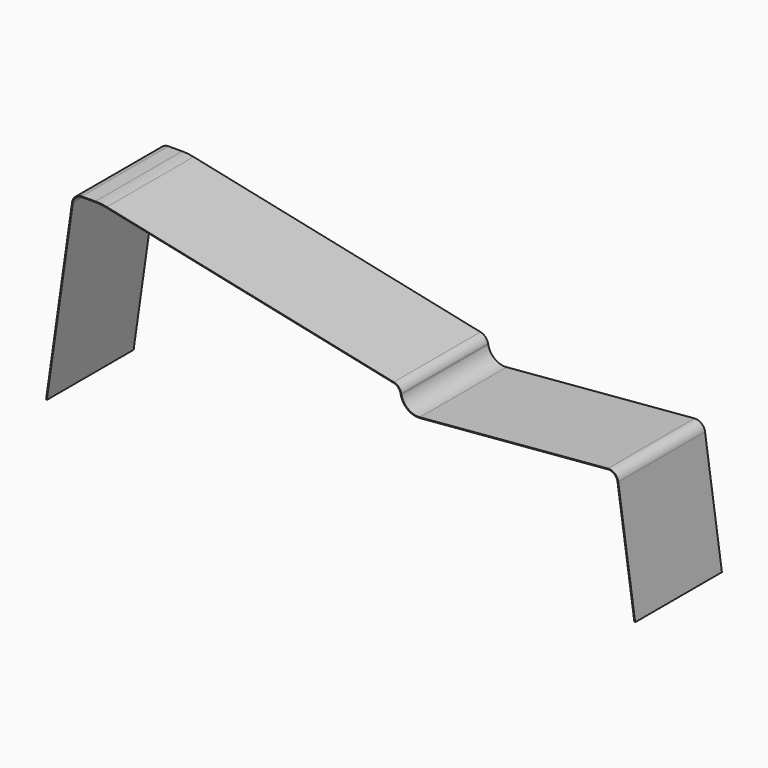
from build123d import *

# Parameters (mm, degrees)
F1_DEPTH = 152.4


with BuildPart() as f1:
    # F0 (on Front) → F1 (new body)
    with BuildSketch(Plane.XZ):
        with BuildLine():
            Line((-1.056078, 0.150868), (0, 0))
            Line((0, 0), (36.542293, 255.796051))
            ThreePointArc((36.542293, 255.796051), (40.793589, 263.594265), (49.114652, 266.7))
            Line((49.114652, 266.7), (68.207103, 266.7))
            ThreePointArc((68.207103, 266.7), (76.156388, 266.284226), (84.018924, 265.04144))
            Line((84.018924, 265.04144), (487.121544, 179.534824))
            ThreePointArc((487.121544, 179.534824), (493.518553, 176.039147), (496.939615, 169.601926))
            Line((496.939615, 169.601926), (497.199711, 168.301447))
            ThreePointArc((497.199711, 168.301447), (506.851257, 152.974208), (524.260375, 147.974287))
            Line((524.260375, 147.974287), (788.147179, 170.432739))
            ThreePointArc((788.147179, 170.432739), (797.130539, 167.717236), (801.796495, 159.574535))
            Line((801.796495, 159.574535), (825.5, -6.35))
            Line((825.5, -6.35), (826.556078, -6.199132))
            Line((826.556078, -6.199132), (802.852573, 159.725403))
            ThreePointArc((802.852573, 159.725403), (797.794677, 168.552091), (788.056714, 171.495696))
            Line((788.056714, 171.495696), (524.169911, 149.037245))
            ThreePointArc((524.169911, 149.037245), (507.491976, 153.827168), (498.245794, 168.510664))
            Line((498.245794, 168.510664), (497.985698, 169.811142))
            ThreePointArc((497.985698, 169.811142), (494.277267, 176.78909), (487.342909, 180.578404))
            Line((487.342909, 180.578404), (84.24029, 266.08502))
            ThreePointArc((84.24029, 266.08502), (76.267678, 267.345205), (68.207103, 267.7668))
            Line((68.207103, 267.7668), (49.114652, 267.7668))
            ThreePointArc((49.114652, 267.7668), (40.09462, 264.400184), (35.486215, 255.94692))
            Line((35.486215, 255.94692), (-1.056078, 0.150868))
        make_face()
    extrude(amount=F1_DEPTH)


solid = f1.part
